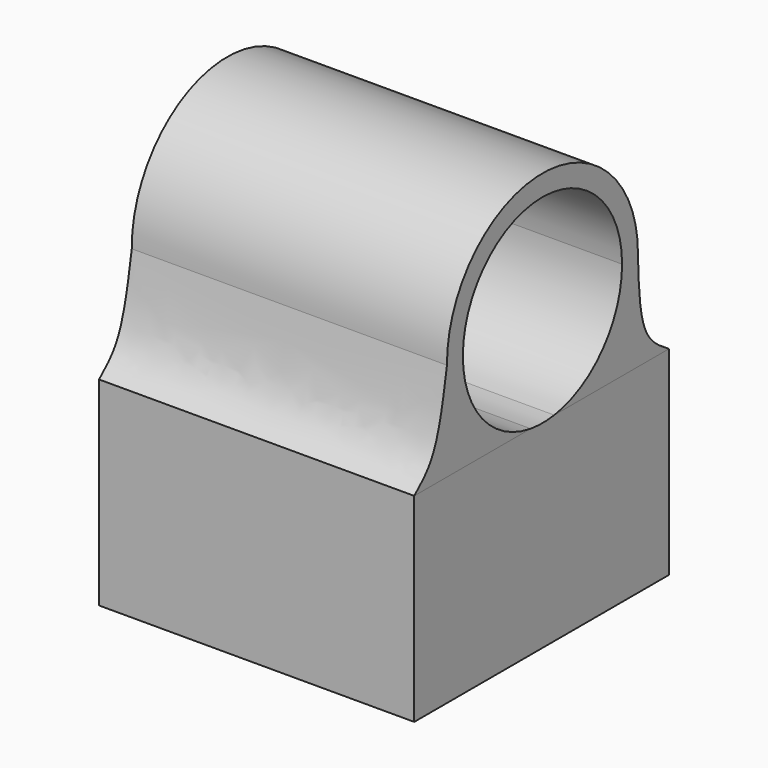
from build123d import *

# Parameters (mm, degrees)
F0_W     = 5.0292
F0_H     = 5.08
F1_DEPTH = 3.175
F3_DEPTH = 5.0292
F5_DEPTH = 5.0292


with BuildPart() as f1:
    # F0 (on Top) → F1 (new body)
    with BuildSketch(Plane.XY):
        with Locations((2.5146, 2.54)):
            Rectangle(F0_W, F0_H)
    extrude(amount=F1_DEPTH)


with BuildPart() as f3:
    # F2 (on face) → F3 (new body)
    with BuildSketch(Plane.YZ.offset(5.0292)):
        with BuildLine():
            add(Edge.make_bspline(
                [(5.08, 3.175), (4.909216309, 3.2808363932), (4.499877674, 3.5345077154), (4.4761133674, 4.2993341407), (4.4622639716, 4.7450607578)],
                knots=[0, 0, 0, 0, 0.4172185971, 1, 1, 1, 1], degree=3))
            ThreePointArc((4.4622639716, 4.7450607578), (2.5573429317, 6.6674052642), (0.6524218918, 4.7450607578))
            add(Edge.make_bspline(
                [(0, 3.175), (0.1302521136, 3.2853480693), (0.4543354823, 3.559907714), (0.5782874001, 4.3015133246), (0.6524218918, 4.7450607578)],
                knots=[0, 0, 0, 0, 0.4019092806, 1, 1, 1, 1], degree=3))
            Line((0, 3.175), (5.08, 3.175))
        make_face()
    extrude(amount=-F3_DEPTH)


with BuildPart() as f5_tool:
    # F4 (on face) → F5 (new body)
    with BuildSketch(Plane.YZ.offset(5.0292)):
        with BuildLine():
            ThreePointArc((4.1448429317, 4.7450607578), (3.6798749468, 5.8675927729), (2.5573429317, 6.3325607578))
            Line((2.5573429317, 6.3325607578), (2.5573429317, 4.7450607578))
            Line((2.5573429317, 4.7450607578), (4.1448429317, 4.7450607578))
        make_face()
        with BuildLine():
            Line((2.5573429317, 4.7450607578), (2.5573429317, 6.3325607578))
            ThreePointArc((2.5573429317, 6.3325607578), (1.4348109166, 5.8675927729), (0.9698429317, 4.7450607578))
            Line((0.9698429317, 4.7450607578), (2.5573429317, 4.7450607578))
        make_face()
        with BuildLine():
            Line((4.1448429317, 4.7450607578), (2.5573429317, 4.7450607578))
            Line((2.5573429317, 4.7450607578), (0.9698429317, 4.7450607578))
            ThreePointArc((0.9698429317, 4.7450607578), (2.5573429317, 3.1575607578), (4.1448429317, 4.7450607578))
        make_face()
    extrude(amount=-F5_DEPTH)


with BuildPart() as f1_1:
    add(f1.part)

    # F5: cut by f5_tool
    add(f5_tool.part, mode=Mode.SUBTRACT)


with BuildPart() as f3_1:
    add(f3.part)

    # F5: cut by f5_tool
    add(f5_tool.part, mode=Mode.SUBTRACT)


solid = Compound([f1_1.part, f3_1.part])
